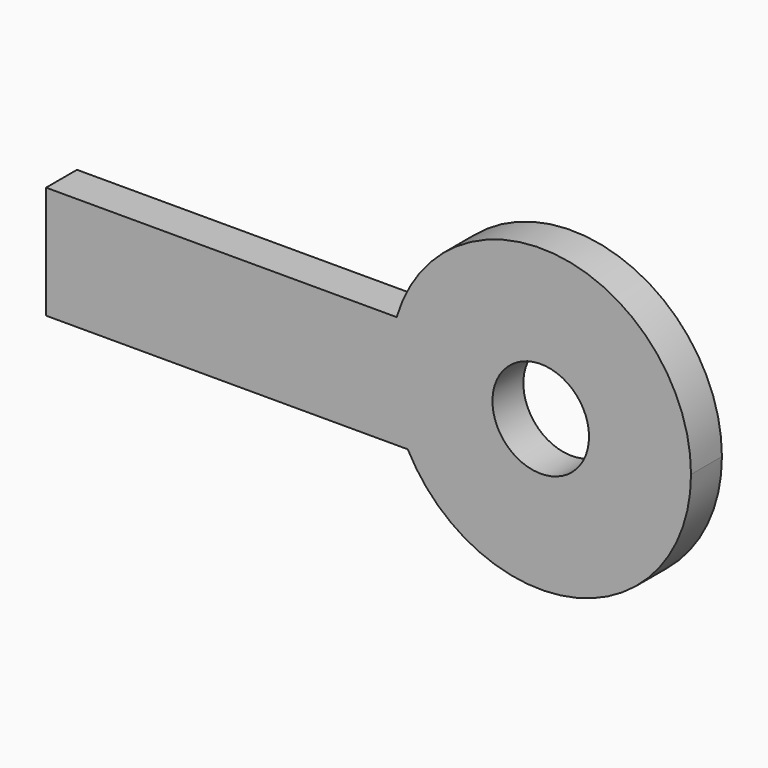
from build123d import *

# Parameters (mm, degrees)
F0_R     = 6.35
F1_DEPTH = 5.08


with BuildPart() as f1:
    # F0 (on Front) → F1 (new body)
    with BuildSketch(Plane.XZ):
        with BuildLine():
            ThreePointArc((-17.483237, -9.209785), (4.743595, -19.182858), (19.760661, 0))
            ThreePointArc((19.760661, 0), (2.837137, 19.555929), (-18.945977, 5.615485))
            ThreePointArc((-18.945977, 5.615485), (-19.665174, -1.940271), (-17.483237, -9.209785))
        make_face()
        Circle(F0_R, mode=Mode.SUBTRACT)
        with BuildLine():
            ThreePointArc((-17.483237, -9.209785), (-19.665174, -1.940271), (-18.945977, 5.615485))
            Line((-18.945977, 5.615485), (-65.044106, 5.615485))
            Line((-65.044106, 5.615485), (-65.044106, -9.209785))
            Line((-65.044106, -9.209785), (-17.483237, -9.209785))
        make_face()
    extrude(amount=F1_DEPTH)


solid = f1.part
